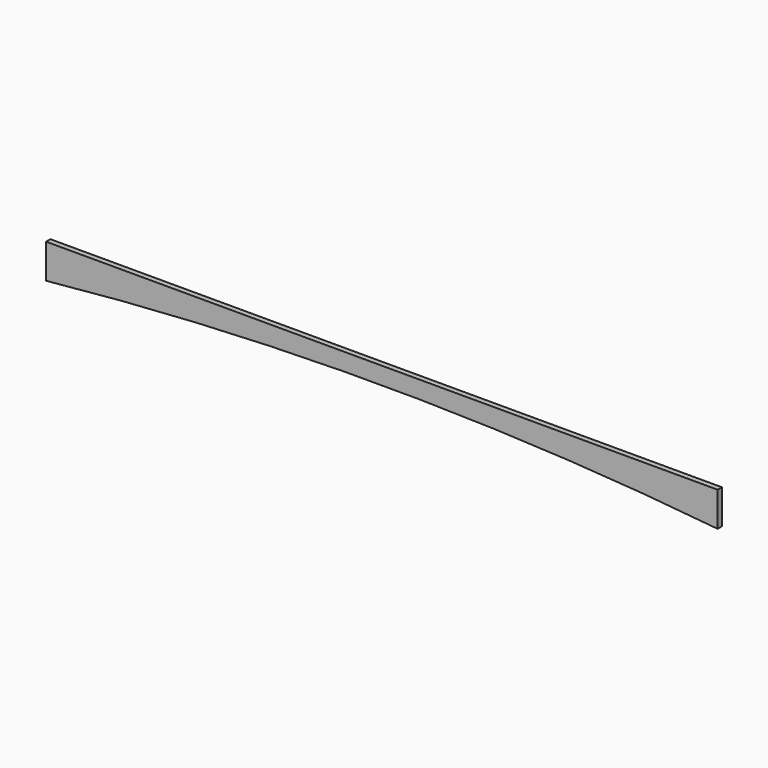
from build123d import *

# Parameters (mm, degrees)
F1_DEPTH = 25.4
F4_DEPTH = 15.875


with BuildPart() as f1:
    # F0 (on Front) → F1 (new body)
    with BuildSketch(Plane.XZ):
        with BuildLine():
            Line((1860.5442472816, 17.4135072052), (-120.6557527184, 17.4135072052))
            Line((-120.6557527184, 17.4135072052), (-120.6557527184, -58.7864927948))
            ThreePointArc((-120.6557527184, -58.7864927948), (869.9442472816, -7.9864927948), (1860.5442472816, -58.7864927948))
            Line((1860.5442472816, -58.7864927948), (1860.5442472816, 17.4135072052))
        make_face()
    extrude(amount=F1_DEPTH)


with BuildPart() as f4:
    # F3 (on Front) → F4 (new body)
    with BuildSketch(Plane.XZ):
        with BuildLine():
            Line((1910.8698048711, -377.0609709263), (-70.3301951289, -377.0609709263))
            Line((-70.3301951289, -377.0609709263), (-70.3301951289, -478.6609709263))
            ThreePointArc((-70.3301951289, -478.6609709262), (920.2698048711, -427.8609709262), (1910.8698048711, -478.6609709262))
            Line((1910.8698048711, -478.6609709263), (1910.8698048711, -377.0609709263))
        make_face()
    extrude(amount=F4_DEPTH)


solid = f4.part
